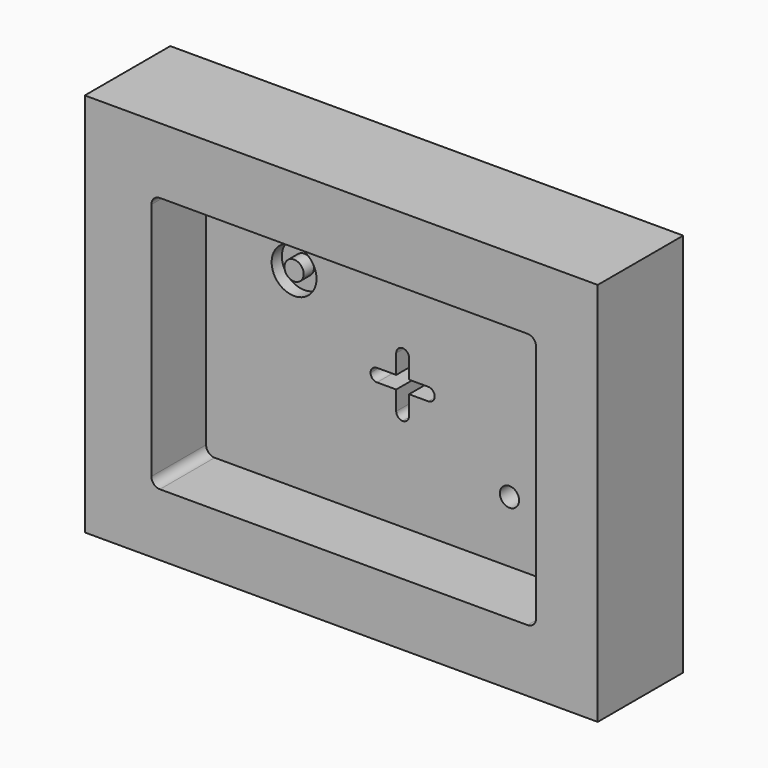
from build123d import *

# Parameters (mm, degrees)
F0_W     = 120
F0_H     = 90
F0_R     = 2.25
F0_R_2   = 5.25
F1_DEPTH = 25
F2_R     = 2.25
F2_R_2   = 5.25
F3_DEPTH = 16
F4_R     = 5.25
F4_R_2   = 2.25
F5_DEPTH = 3
F6_R     = 2.25
F7_DEPTH = 9.001


with BuildPart() as f1:
    # F0 (on Front) → F1 (new body)
    with BuildSketch(Plane.XZ):
        Rectangle(F0_W, F0_H)
        with BuildLine():
            Line((-43, 30), (43, 30))
            ThreePointArc((43, 30), (44.4142135624, 29.4142135624), (45, 28))
            Line((45, 28), (45, -28))
            ThreePointArc((45, -28), (44.4142135624, -29.4142135624), (43, -30))
            Line((43, -30), (-43, -30))
            ThreePointArc((-43, -30), (-44.4142135624, -29.4142135624), (-45, -28))
            Line((-45, -28), (-45, 28))
            ThreePointArc((-45, 28), (-44.4142135624, 29.4142135624), (-43, 30))
        make_face(mode=Mode.SUBTRACT)
        with BuildLine():
            ThreePointArc((45, 28), (44.4142135624, 29.4142135624), (43, 30))
            Line((43, 30), (-43, 30))
            ThreePointArc((-43, 30), (-44.4142135624, 29.4142135624), (-45, 28))
            Line((-45, 28), (-45, -28))
            ThreePointArc((-45, -28), (-44.4142135624, -29.4142135624), (-43, -30))
            Line((-43, -30), (43, -30))
            ThreePointArc((43, -30), (44.4142135624, -29.4142135624), (45, -28))
            Line((45, -28), (45, 28))
        make_face()
        with Locations((25, -15)):
            Circle(F0_R, mode=Mode.SUBTRACT)
        with Locations((-25, 15)):
            Circle(F0_R_2, mode=Mode.SUBTRACT)
        with BuildLine():
            Line((1.5, 1.5), (6, 1.5))
            ThreePointArc((6, 1.5), (7.0606601718, 1.0606601718), (7.5, 0))
            ThreePointArc((7.5, 0), (7.0606601718, -1.0606601718), (6, -1.5))
            Line((6, -1.5), (1.5, -1.5))
            Line((1.5, -1.5), (1.5, -6))
            ThreePointArc((1.5, -6), (1.0606601718, -7.0606601718), (0, -7.5))
            ThreePointArc((0, -7.5), (-1.0606601718, -7.0606601718), (-1.5, -6))
            Line((-1.5, -6), (-1.5, -1.5))
            Line((-1.5, -1.5), (-6, -1.5))
            ThreePointArc((-6, -1.5), (-7.0606601718, -1.0606601718), (-7.5, 0))
            ThreePointArc((-7.5, 0), (-7.0606601718, 1.0606601718), (-6, 1.5))
            Line((-6, 1.5), (-1.5, 1.5))
            Line((-1.5, 1.5), (-1.5, 6))
            ThreePointArc((-1.5, 6), (-1.0606601718, 7.0606601718), (0, 7.5))
            ThreePointArc((0, 7.5), (1.0606601718, 7.0606601718), (1.5, 6))
            Line((1.5, 6), (1.5, 1.5))
        make_face(mode=Mode.SUBTRACT)
        with Locations((-25, 15)):
            Circle(F0_R_2)
        with Locations((-25, 15)):
            Circle(F0_R, mode=Mode.SUBTRACT)
        with BuildLine():
            ThreePointArc((7.5, 0), (7.0606601718, 1.0606601718), (6, 1.5))
            Line((6, 1.5), (1.5, 1.5))
            Line((1.5, 1.5), (1.5, 6))
            ThreePointArc((1.5, 6), (1.0606601718, 7.0606601718), (0, 7.5))
            ThreePointArc((0, 7.5), (-1.0606601718, 7.0606601718), (-1.5, 6))
            Line((-1.5, 6), (-1.5, 1.5))
            Line((-1.5, 1.5), (-6, 1.5))
            ThreePointArc((-6, 1.5), (-7.0606601718, 1.0606601718), (-7.5, 0))
            ThreePointArc((-7.5, 0), (-7.0606601718, -1.0606601718), (-6, -1.5))
            Line((-6, -1.5), (-1.5, -1.5))
            Line((-1.5, -1.5), (-1.5, -6))
            ThreePointArc((-1.5, -6), (-1.0606601718, -7.0606601718), (0, -7.5))
            ThreePointArc((0, -7.5), (1.0606601718, -7.0606601718), (1.5, -6))
            Line((1.5, -6), (1.5, -1.5))
            Line((1.5, -1.5), (6, -1.5))
            ThreePointArc((6, -1.5), (7.0606601718, -1.0606601718), (7.5, 0))
        make_face()
        with Locations((-25, 15)):
            Circle(F0_R)
        with Locations((25, -15)):
            Circle(F0_R)
    extrude(amount=-F1_DEPTH)

    # F2 (on face) → F3 (cut)
    with BuildSketch(Plane.XZ):
        with BuildLine():
            ThreePointArc((45.579787234, 27.6010638298), (44.9940007964, 29.0152773922), (43.579787234, 29.6010638298))
            Line((43.579787234, 29.6010638298), (-42.420212766, 29.6010638298))
            ThreePointArc((-42.420212766, 29.6010638298), (-43.8344263283, 29.0152773922), (-44.420212766, 27.6010638298))
            Line((-44.420212766, 27.6010638298), (-44.420212766, -28.3989361702))
            ThreePointArc((-44.420212766, -28.3989361702), (-43.8344263283, -29.8131497326), (-42.420212766, -30.3989361702))
            Line((-42.420212766, -30.3989361702), (43.579787234, -30.3989361702))
            ThreePointArc((43.579787234, -30.3989361702), (44.9940007964, -29.8131497326), (45.579787234, -28.3989361702))
            Line((45.579787234, -28.3989361702), (45.579787234, 27.6010638298))
        make_face()
        with Locations((25.579787234, -15.3989361702)):
            Circle(F2_R, mode=Mode.SUBTRACT)
        with BuildLine():
            Line((2.079787234, 1.1010638298), (6.579787234, 1.1010638298))
            ThreePointArc((6.579787234, 1.1010638298), (7.6404474058, 0.6617240016), (8.079787234, -0.3989361702))
            ThreePointArc((8.079787234, -0.3989361702), (7.6404474058, -1.459596342), (6.579787234, -1.8989361702))
            Line((6.579787234, -1.8989361702), (2.079787234, -1.8989361702))
            Line((2.079787234, -1.8989361702), (2.079787234, -6.3989361702))
            ThreePointArc((2.079787234, -6.3989361702), (1.6404474058, -7.459596342), (0.579787234, -7.8989361702))
            ThreePointArc((0.579787234, -7.8989361702), (-0.4808729377, -7.459596342), (-0.920212766, -6.3989361702))
            Line((-0.920212766, -6.3989361702), (-0.920212766, -1.8989361702))
            Line((-0.920212766, -1.8989361702), (-5.420212766, -1.8989361702))
            ThreePointArc((-5.420212766, -1.8989361702), (-6.4808729377, -1.459596342), (-6.920212766, -0.3989361702))
            ThreePointArc((-6.920212766, -0.3989361702), (-6.4808729377, 0.6617240016), (-5.420212766, 1.1010638298))
            Line((-5.420212766, 1.1010638298), (-0.920212766, 1.1010638298))
            Line((-0.920212766, 1.1010638298), (-0.920212766, 5.6010638298))
            ThreePointArc((-0.920212766, 5.6010638298), (-0.4808729377, 6.6617240016), (0.579787234, 7.1010638298))
            ThreePointArc((0.579787234, 7.1010638298), (1.6404474058, 6.6617240016), (2.079787234, 5.6010638298))
            Line((2.079787234, 5.6010638298), (2.079787234, 1.1010638298))
        make_face(mode=Mode.SUBTRACT)
        with Locations((-24.420212766, 14.6010638298)):
            Circle(F2_R_2, mode=Mode.SUBTRACT)
        with Locations((-24.420212766, 14.6010638298)):
            Circle(F2_R_2)
        with Locations((-24.420212766, 14.6010638298)):
            Circle(F2_R, mode=Mode.SUBTRACT)
        with Locations((-24.420212766, 14.6010638298)):
            Circle(F2_R)
        with BuildLine():
            ThreePointArc((8.079787234, -0.3989361702), (7.6404474058, 0.6617240016), (6.579787234, 1.1010638298))
            Line((6.579787234, 1.1010638298), (2.079787234, 1.1010638298))
            Line((2.079787234, 1.1010638298), (2.079787234, 5.6010638298))
            ThreePointArc((2.079787234, 5.6010638298), (1.6404474058, 6.6617240016), (0.579787234, 7.1010638298))
            ThreePointArc((0.579787234, 7.1010638298), (-0.4808729377, 6.6617240016), (-0.920212766, 5.6010638298))
            Line((-0.920212766, 5.6010638298), (-0.920212766, 1.1010638298))
            Line((-0.920212766, 1.1010638298), (-5.420212766, 1.1010638298))
            ThreePointArc((-5.420212766, 1.1010638298), (-6.4808729377, 0.6617240016), (-6.920212766, -0.3989361702))
            ThreePointArc((-6.920212766, -0.3989361702), (-6.4808729377, -1.459596342), (-5.420212766, -1.8989361702))
            Line((-5.420212766, -1.8989361702), (-0.920212766, -1.8989361702))
            Line((-0.920212766, -1.8989361702), (-0.920212766, -6.3989361702))
            ThreePointArc((-0.920212766, -6.3989361702), (-0.4808729377, -7.459596342), (0.579787234, -7.8989361702))
            ThreePointArc((0.579787234, -7.8989361702), (1.6404474058, -7.459596342), (2.079787234, -6.3989361702))
            Line((2.079787234, -6.3989361702), (2.079787234, -1.8989361702))
            Line((2.079787234, -1.8989361702), (6.579787234, -1.8989361702))
            ThreePointArc((6.579787234, -1.8989361702), (7.6404474058, -1.459596342), (8.079787234, -0.3989361702))
        make_face()
        with Locations((25.579787234, -15.3989361702)):
            Circle(F2_R)
    extrude(amount=-F3_DEPTH, mode=Mode.SUBTRACT)

    # F4 (on face) → F5 (cut)
    with BuildSketch(Plane.XZ.offset(-16)):
        with Locations((-23.8404255319, 14.2021276596)):
            Circle(F4_R)
        with Locations((-23.8404255319, 14.2021276596)):
            Circle(F4_R_2, mode=Mode.SUBTRACT)
    extrude(amount=-F5_DEPTH, mode=Mode.SUBTRACT)

    # F6 (on face) → F7 (cut, through all)
    with BuildSketch(Plane.XZ.offset(-16)):
        with BuildLine():
            ThreePointArc((9.0577965574, -1.0359728926), (8.6184567292, 0.0246872792), (7.5577965574, 0.4640271074))
            Line((7.5577965574, 0.4640271074), (3.0577965574, 0.4640271074))
            Line((3.0577965574, 0.4640271074), (3.0577965574, 4.9640271074))
            ThreePointArc((3.0577965574, 4.9640271074), (2.6184567292, 6.0246872792), (1.5577965574, 6.4640271074))
            ThreePointArc((1.5577965574, 6.4640271074), (0.4971363856, 6.0246872792), (0.0577965574, 4.9640271074))
            Line((0.0577965574, 4.9640271074), (0.0577965574, 0.4640271074))
            Line((0.0577965574, 0.4640271074), (-4.4422034426, 0.4640271074))
            ThreePointArc((-4.4422034426, 0.4640271074), (-5.5028636144, 0.0246872792), (-5.9422034426, -1.0359728926))
            ThreePointArc((-5.9422034426, -1.0359728926), (-5.5028636144, -2.0966330644), (-4.4422034426, -2.5359728926))
            Line((-4.4422034426, -2.5359728926), (0.0577965574, -2.5359728926))
            Line((0.0577965574, -2.5359728926), (0.0577965574, -7.0359728926))
            ThreePointArc((0.0577965574, -7.0359728926), (0.4971363856, -8.0966330644), (1.5577965574, -8.5359728926))
            ThreePointArc((1.5577965574, -8.5359728926), (2.6184567292, -8.0966330644), (3.0577965574, -7.0359728926))
            Line((3.0577965574, -7.0359728926), (3.0577965574, -2.5359728926))
            Line((3.0577965574, -2.5359728926), (7.5577965574, -2.5359728926))
            ThreePointArc((7.5577965574, -2.5359728926), (8.6184567292, -2.0966330644), (9.0577965574, -1.0359728926))
        make_face()
        with Locations((26.5577965574, -16.0359728926)):
            Circle(F6_R)
    extrude(amount=-F7_DEPTH, mode=Mode.SUBTRACT)


solid = f1.part
